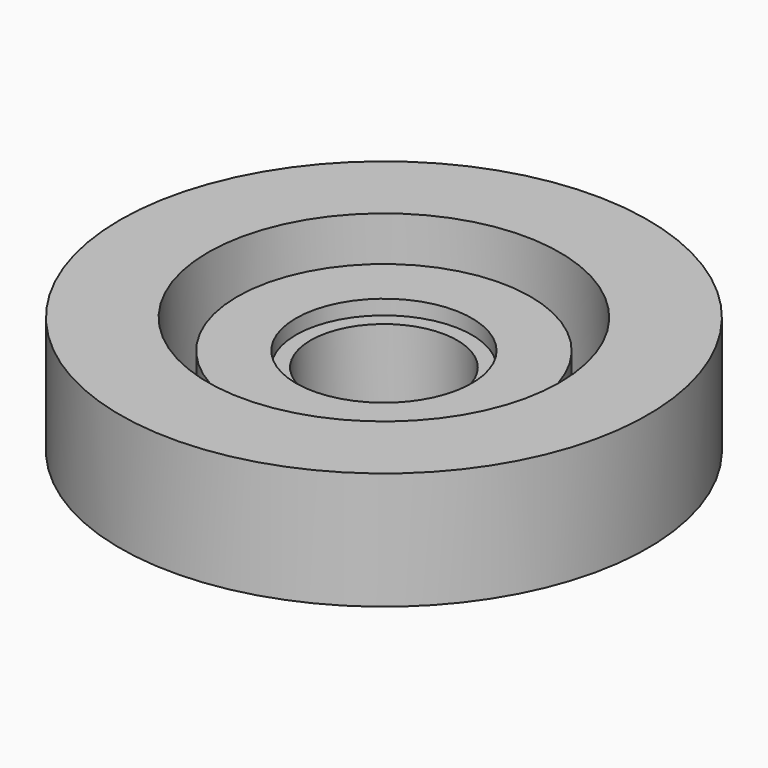
from build123d import *

# Parameters (mm, degrees)
F0_W = 1.5
F0_H = 2.5
F2_W = 3
F2_H = 4
F4_W = 2
F4_H = 3


with BuildPart() as f1:
    # F0 (on Front) → F1 (revolve)
    with BuildSketch(Plane.XZ):
        with Locations((-3.25, 1.25)):
            Rectangle(F0_W, F0_H)
    revolve(axis=Axis((0, 0, 1.726017), (0, 0, 1)))


with BuildPart() as f3:
    # F2 (on Front) → F3 (revolve)
    with BuildSketch(Plane.XZ):
        with Locations((-7.5, 2)):
            Rectangle(F2_W, F2_H)
    revolve(axis=Axis((0, 0, 3.215874), (0, 0, 1)))


with BuildPart() as f5:
    # F4 (on Front) → F5 (revolve)
    with BuildSketch(Plane.XZ):
        with Locations((-4, 1.5)):
            Rectangle(F4_W, F4_H)
    revolve(axis=Axis((0, 0, 1.631281), (0, 0, 1)))


solid = Compound([f1.part, f3.part, f5.part])
